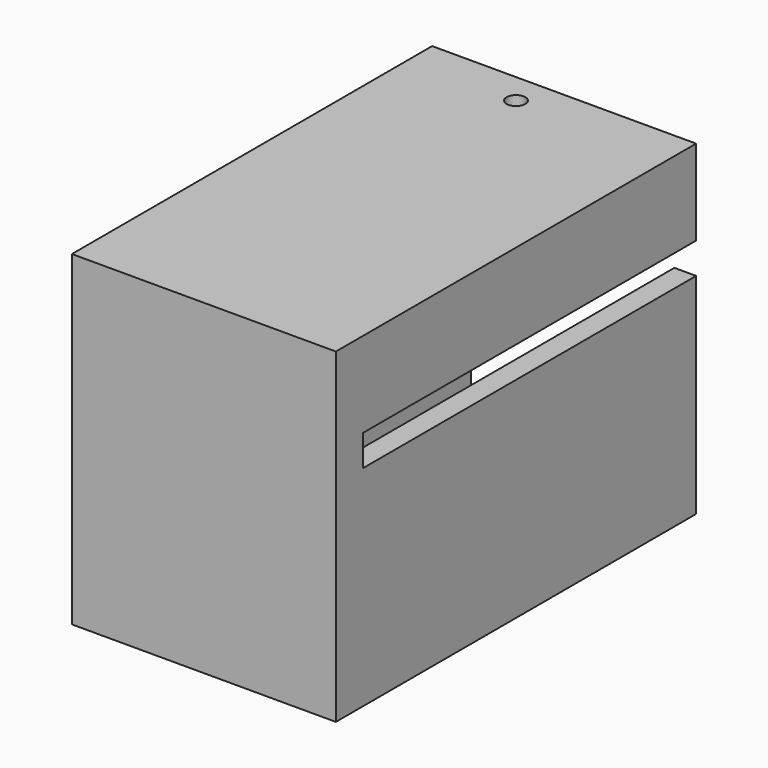
from build123d import *

# Parameters (mm, degrees)
SKETCH285_W     = 17
SKETCH285_H     = 21
PAD190_DEPTH    = 29
SKETCH281_W     = 13.1
SKETCH281_H     = 17
POCKET037_DEPTH = 25.7
SKETCH268_W     = 11.5
SKETCH268_H     = 1.2
SKETCH268_W_2   = 1.4
SKETCH268_H_2   = 2
POCKET039_DEPTH = 26.8
SKETCH271_R     = 0.6
POCKET041_DEPTH = 50
SKETCH278_W     = 0.6
SKETCH278_H     = 3
POCKET038_DEPTH = 2.5


with BuildPart() as part:
    # Sketch285 → Pad190 (new body)
    with BuildSketch(Plane.XZ):
        with Locations((1.5, 2)):
            Rectangle(SKETCH285_W, SKETCH285_H)
    extrude(amount=PAD190_DEPTH)

    # Sketch281 (on Face5 of Pad190) → Pocket037 (cut)
    with BuildSketch(Plane(origin=(0, 0, 0), x_dir=(1, 0, 0), z_dir=(0, 1, 0))):
        with Locations((2.05, -2)):
            Rectangle(SKETCH281_W, SKETCH281_H)
    extrude(amount=-POCKET037_DEPTH, mode=Mode.SUBTRACT)

    # Sketch268 (on Face4 of Pocket037) → Pocket039 (cut)
    with BuildSketch(Plane(origin=(0, 0, 0), x_dir=(1, 0, 0), z_dir=(0, 1, 0))):
        Rectangle(SKETCH268_W, SKETCH268_H)
        with Locations((9.3, -6)):
            Rectangle(SKETCH268_W_2, SKETCH268_H_2)
    extrude(amount=-POCKET039_DEPTH, mode=Mode.SUBTRACT)

    # Sketch271 (on Face6 of Pocket039) → Pocket041 (cut)
    with BuildSketch(Plane(origin=(0, 0, -8.5), x_dir=(1, 0, 0), z_dir=(0, 0, -1))):
        with Locations((0, 2)):
            Circle(SKETCH271_R)
    extrude(amount=-POCKET041_DEPTH, mode=Mode.SUBTRACT)

    # Sketch278 (on Face21 of Pocket041) → Pocket038 (cut)
    with BuildSketch(Plane(origin=(8.6, 0, 0), x_dir=(0, 0, 1), z_dir=(1, 0, 0))):
        with Locations((0, -9)):
            Rectangle(SKETCH278_W, SKETCH278_H)
    extrude(amount=-POCKET038_DEPTH, mode=Mode.SUBTRACT)


solid = part.part
